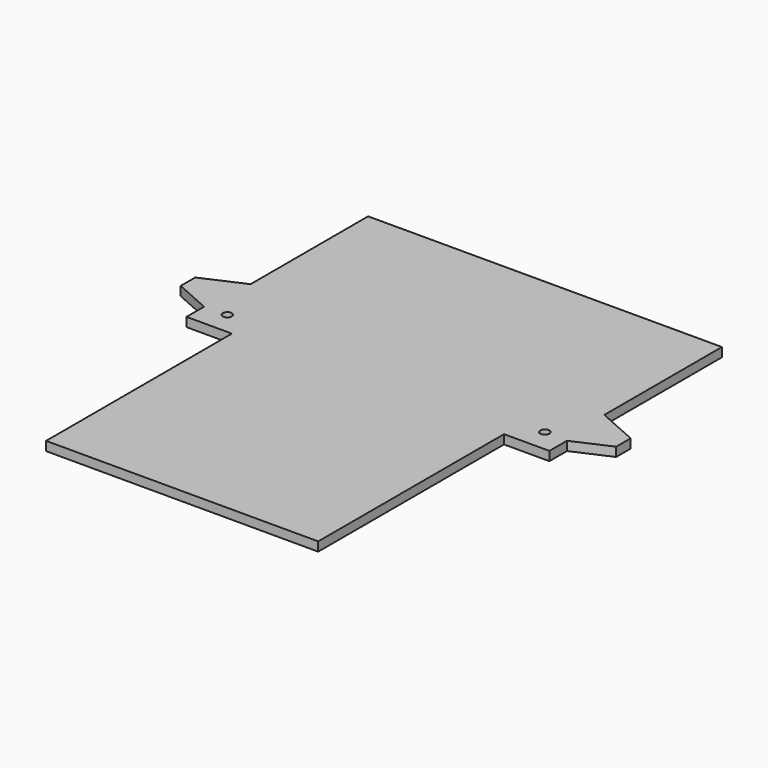
from build123d import *

# Parameters (mm, degrees)
F0_R     = 5
F1_DEPTH = 10


with BuildPart() as f1:
    # F0 (on Top) → F1 (new body)
    with BuildSketch(Plane.XY):
        Polygon((-195, 30), (-240, 10), (-240, -10), (-200, -27.777778), (-200, -52), (-150, -52), (-150, -308), (0, -308), (150, -308), (150, -52), (200, -52), (200, -27.777778), (240, -10), (240, 10), (195, 30), (195, 192), (0, 192), (-195, 192), align=None)
        with Locations((-175, -27)):
            Circle(F0_R, mode=Mode.SUBTRACT)
        with Locations((175, -27)):
            Circle(F0_R, mode=Mode.SUBTRACT)
    extrude(amount=F1_DEPTH)


solid = f1.part
